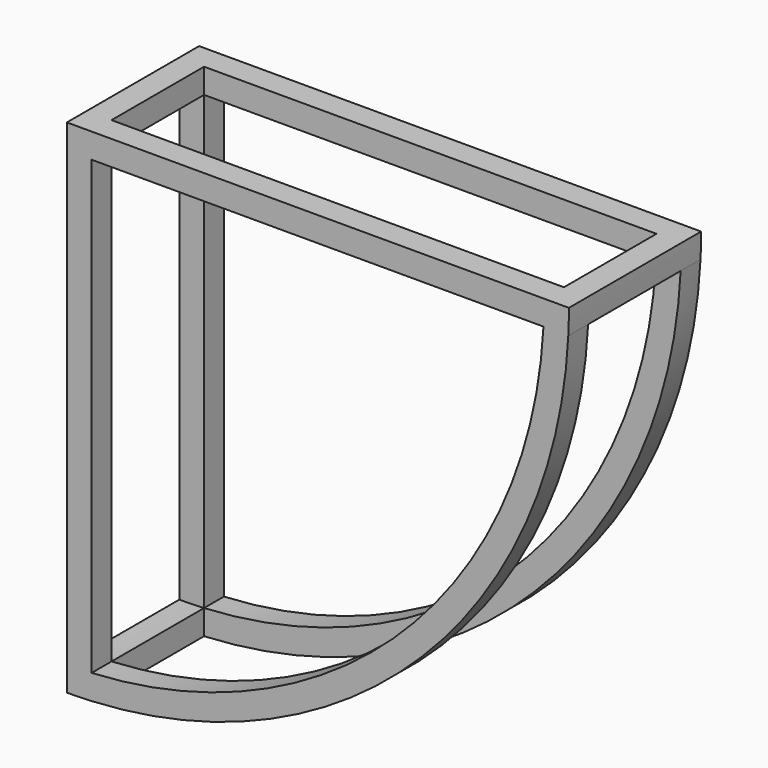
from build123d import *

# Parameters (mm, degrees)
F0_W     = 6
F0_H     = 6
F1_DEPTH = 26
F2_DEPTH = 6


with BuildPart() as f1:
    # F0 (on Front) → F1 (new body)
    with BuildSketch(Plane.XZ):
        with Locations((3, -3)):
            Rectangle(F0_W, F0_H)
    extrude(amount=F1_DEPTH)



with BuildPart() as f1b:
    # F0 (on Front) → F1, piece 2 (new body)
    with BuildSketch(Plane.XZ):
        with BuildLine():
            Line((120, -6), (121.3517614211, -6))
            ThreePointArc((121.3517614211, -6), (121.4629347016, -3.0009154718), (121.5, 0))
            Line((121.5, 0), (115.5, 0))
            ThreePointArc((115.5, 0), (115.4610060581, -3.0010131717), (115.3440505618, -6))
            Line((115.3440505618, -6), (120, -6))
        make_face()
    extrude(amount=F1_DEPTH)


with BuildPart() as f1c:
    # F0 (on Front) → F1, piece 3 (new body)
    with BuildSketch(Plane.XZ):
        with BuildLine():
            Line((0, -115.5), (0, -121.5))
            ThreePointArc((0, -121.5), (3.0009154718, -121.4629347016), (6, -121.3517614211))
            Line((6, -121.3517614211), (6, -120))
            Line((6, -120), (6, -115.3440505618))
            ThreePointArc((6, -115.3440505618), (3.0010131717, -115.4610060581), (0, -115.5))
        make_face()
    extrude(amount=F1_DEPTH)


with BuildPart() as f1_1:
    add(f1.part)

    add(f1b.part)  # F2 merges F1b

    add(f1c.part)  # F2 merges F1c
    # F0 (on Front) → F2 (join)
    with BuildSketch(Plane.XZ):
        with BuildLine():
            Line((6, 0), (6, -6))
            Line((6, -6), (115.3440505618, -6))
            ThreePointArc((115.3440505618, -6), (115.4610060581, -3.0010131717), (115.5, 0))
            Line((115.5, 0), (6, 0))
        make_face()
        with BuildLine():
            Line((6, -120), (6, -121.3517614211))
            ThreePointArc((6, -121.3517614211), (85.9134739142, -85.9134739142), (121.3517614211, -6))
            Line((121.3517614211, -6), (120, -6))
            Line((120, -6), (115.3440505618, -6))
            ThreePointArc((115.3440505618, -6), (81.670833227, -81.670833227), (6, -115.3440505618))
            Line((6, -115.3440505618), (6, -120))
        make_face()
        with BuildLine():
            Line((0, -6), (0, -115.5))
            ThreePointArc((0, -115.5), (3.0010131717, -115.4610060581), (6, -115.3440505618))
            Line((6, -115.3440505618), (6, -6))
            Line((6, -6), (0, -6))
        make_face()
    extrude(amount=F2_DEPTH)


with BuildPart() as f1_2:
    # F3: moved
    add(f1_1.part.moved(Location((0, 20, 0))))

    # F4: F1 across plane


with BuildPart() as f1_3:
    add(f1_2.part)
    add(f1_2.part.mirror(Plane.XZ))


solid = f1_3.part
